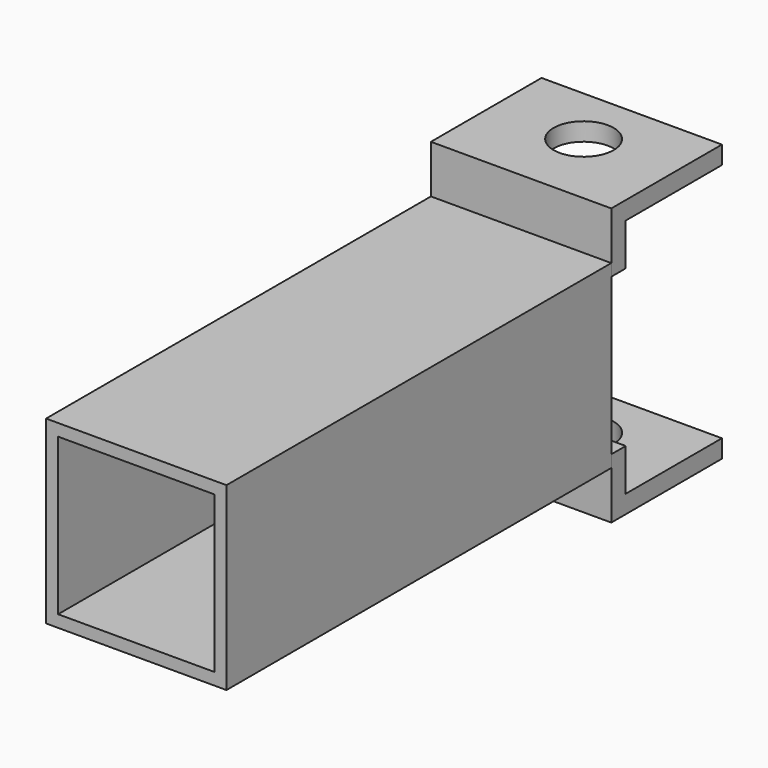
from build123d import *

# Parameters (mm, degrees)
F0_W     = 38.1
F0_H     = 38.1
F0_W_2   = 33.02
F0_H_2   = 33.02
F1_DEPTH = 101.6
F2_W     = 25.4
F2_H     = 3.81
F3_DEPTH = 19.05
F4_R     = 6.35
F5_DEPTH = 58.421
F6_R     = 6.35
F7_DEPTH = 58.421


with BuildPart() as f1:
    # F0 (on Front) → F1 (new body)
    with BuildSketch(Plane.XZ):
        Rectangle(F0_W, F0_H)
        Rectangle(F0_W_2, F0_H_2, mode=Mode.SUBTRACT)
    extrude(amount=F1_DEPTH)

    # F6 (on face) → F7 (cut, through all)
    with BuildSketch(Plane(origin=(0, 0, -29.21), x_dir=(1, 0, 0), z_dir=(0, 0, -1))):
        with Locations((0, -16.51)):
            Circle(F6_R)
    extrude(amount=-F7_DEPTH, mode=Mode.SUBTRACT)


with BuildPart() as f3:
    # F2 (on Right) → F3 (new body, symmetric)
    with BuildSketch(Plane.YZ):
        Polygon((0, 29.21), (0, 16.51), (3.81, 16.51), (3.81, 25.4), (3.81, 29.21), align=None)
        with Locations((16.51, 27.305)):
            Rectangle(F2_W, F2_H)
    extrude(amount=F3_DEPTH, both=True)


with BuildPart() as f3b:
    # F2 (on Right) → F3, piece 2 (new body, symmetric)
    with BuildSketch(Plane.YZ):
        Polygon((3.81, -16.51), (0, -16.51), (0, -29.21), (3.81, -29.21), (3.81, -25.4), align=None)
        with Locations((16.51, -27.305)):
            Rectangle(F2_W, F2_H)
    extrude(amount=F3_DEPTH, both=True)


with BuildPart() as f5_tool:
    # F4 (on face) → F5 (new body, through all)
    with BuildSketch(Plane.XY.offset(29.21)):
        with Locations((0, 16.51)):
            Circle(F4_R)
    extrude(amount=-F5_DEPTH)


with BuildPart() as f3_1:
    add(f3.part)

    # F5: cut by f5_tool
    add(f5_tool.part, mode=Mode.SUBTRACT)


with BuildPart() as f3b_1:
    add(f3b.part)

    # F5: cut by f5_tool
    add(f5_tool.part, mode=Mode.SUBTRACT)


solid = Compound([f1.part, f3_1.part, f3b_1.part])
